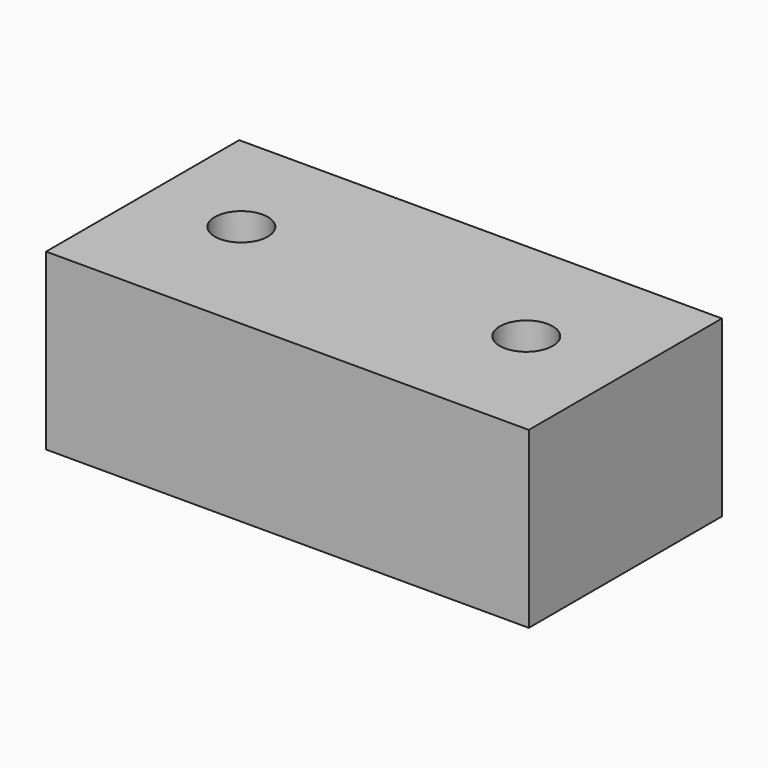
from build123d import *

# Parameters (mm, degrees)
F0_W           = 100
F0_H           = 50
F1_DEPTH       = 36.1
F3_D           = 6.6
F3_DEPTH       = 10
F3_CBORE_D     = 11
F3_CBORE_DEPTH = 6.5
F3_TIP         = 1.9828400428


with BuildPart() as f1:
    # F0 (on Top) → F1 (new body)
    with BuildSketch(Plane.XY):
        with Locations((0.8892007172, -8.8335111079)):
            Rectangle(F0_W, F0_H)
    extrude(amount=F1_DEPTH)

    # F3
    with Locations(Plane.XY.offset(36.1)):
        with Locations((30.0435870886, -8.4371976554), (-29.8706889153, -7.3232129216)):
            CounterBoreHole(F3_D / 2, F3_CBORE_D / 2, F3_CBORE_DEPTH, depth=F3_DEPTH)
            with Locations((0, 0, -(F3_DEPTH + F3_TIP / 2))):  # 118° drill point
                Cone(0, F3_D / 2, F3_TIP, mode=Mode.SUBTRACT)


solid = f1.part
